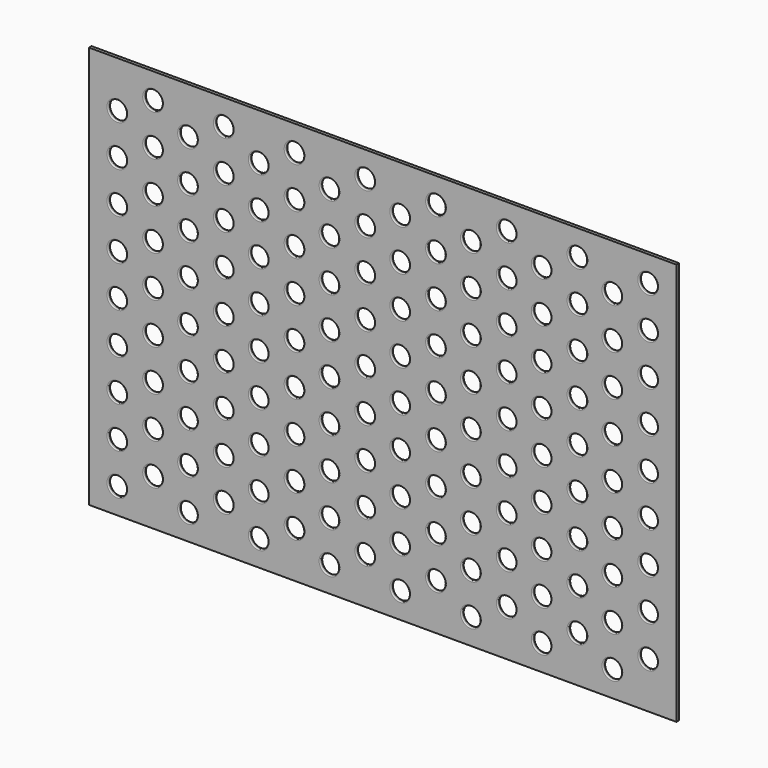
from build123d import *

# Parameters (mm, degrees)
F0_W     = 270
F0_H     = 185
F0_R     = 4.25
F1_DEPTH = 1.5
F2_R     = 0.5


with BuildPart() as f1:
    # F0 (on Front) → F1 (new body)
    with BuildSketch(Plane.XZ):
        with Locations((121.975, 80.75)):
            Rectangle(F0_W, F0_H)
        Circle(F0_R, mode=Mode.SUBTRACT)
        with Locations((16.45, 9.5)):
            Circle(F0_R, mode=Mode.SUBTRACT)
        with Locations((32.5, 0)):
            Circle(F0_R, mode=Mode.SUBTRACT)
        with Locations((48.95, 9.5)):
            Circle(F0_R, mode=Mode.SUBTRACT)
        with Locations((0, 19)):
            Circle(F0_R, mode=Mode.SUBTRACT)
        with Locations((16.45, 28.5)):
            Circle(F0_R, mode=Mode.SUBTRACT)
        with Locations((32.5, 19)):
            Circle(F0_R, mode=Mode.SUBTRACT)
        with Locations((48.95, 28.5)):
            Circle(F0_R, mode=Mode.SUBTRACT)
        with Locations((65, 0)):
            Circle(F0_R, mode=Mode.SUBTRACT)
        with Locations((81.45, 9.5)):
            Circle(F0_R, mode=Mode.SUBTRACT)
        with Locations((97.5, 0)):
            Circle(F0_R, mode=Mode.SUBTRACT)
        with Locations((113.95, 9.5)):
            Circle(F0_R, mode=Mode.SUBTRACT)
        with Locations((65, 19)):
            Circle(F0_R, mode=Mode.SUBTRACT)
        with Locations((81.45, 28.5)):
            Circle(F0_R, mode=Mode.SUBTRACT)
        with Locations((97.5, 19)):
            Circle(F0_R, mode=Mode.SUBTRACT)
        with Locations((113.95, 28.5)):
            Circle(F0_R, mode=Mode.SUBTRACT)
        with Locations((0, 38)):
            Circle(F0_R, mode=Mode.SUBTRACT)
        with Locations((0, 57)):
            Circle(F0_R, mode=Mode.SUBTRACT)
        with Locations((16.45, 47.5)):
            Circle(F0_R, mode=Mode.SUBTRACT)
        with Locations((32.5, 38)):
            Circle(F0_R, mode=Mode.SUBTRACT)
        with Locations((32.5, 57)):
            Circle(F0_R, mode=Mode.SUBTRACT)
        with Locations((48.95, 47.5)):
            Circle(F0_R, mode=Mode.SUBTRACT)
        with Locations((16.45, 66.5)):
            Circle(F0_R, mode=Mode.SUBTRACT)
        with Locations((0, 76)):
            Circle(F0_R, mode=Mode.SUBTRACT)
        with Locations((48.95, 66.5)):
            Circle(F0_R, mode=Mode.SUBTRACT)
        with Locations((32.5, 76)):
            Circle(F0_R, mode=Mode.SUBTRACT)
        with Locations((65, 38)):
            Circle(F0_R, mode=Mode.SUBTRACT)
        with Locations((65, 57)):
            Circle(F0_R, mode=Mode.SUBTRACT)
        with Locations((81.45, 47.5)):
            Circle(F0_R, mode=Mode.SUBTRACT)
        with Locations((97.5, 38)):
            Circle(F0_R, mode=Mode.SUBTRACT)
        with Locations((97.5, 57)):
            Circle(F0_R, mode=Mode.SUBTRACT)
        with Locations((113.95, 47.5)):
            Circle(F0_R, mode=Mode.SUBTRACT)
        with Locations((81.45, 66.5)):
            Circle(F0_R, mode=Mode.SUBTRACT)
        with Locations((65, 76)):
            Circle(F0_R, mode=Mode.SUBTRACT)
        with Locations((113.95, 66.5)):
            Circle(F0_R, mode=Mode.SUBTRACT)
        with Locations((97.5, 76)):
            Circle(F0_R, mode=Mode.SUBTRACT)
        with Locations((130, 0)):
            Circle(F0_R, mode=Mode.SUBTRACT)
        with Locations((146.45, 9.5)):
            Circle(F0_R, mode=Mode.SUBTRACT)
        with Locations((162.5, 0)):
            Circle(F0_R, mode=Mode.SUBTRACT)
        with Locations((178.95, 9.5)):
            Circle(F0_R, mode=Mode.SUBTRACT)
        with Locations((130, 19)):
            Circle(F0_R, mode=Mode.SUBTRACT)
        with Locations((146.45, 28.5)):
            Circle(F0_R, mode=Mode.SUBTRACT)
        with Locations((162.5, 19)):
            Circle(F0_R, mode=Mode.SUBTRACT)
        with Locations((178.95, 28.5)):
            Circle(F0_R, mode=Mode.SUBTRACT)
        with Locations((195, 0)):
            Circle(F0_R, mode=Mode.SUBTRACT)
        with Locations((211.45, 9.5)):
            Circle(F0_R, mode=Mode.SUBTRACT)
        with Locations((227.5, 0)):
            Circle(F0_R, mode=Mode.SUBTRACT)
        with Locations((243.95, 9.5)):
            Circle(F0_R, mode=Mode.SUBTRACT)
        with Locations((195, 19)):
            Circle(F0_R, mode=Mode.SUBTRACT)
        with Locations((211.45, 28.5)):
            Circle(F0_R, mode=Mode.SUBTRACT)
        with Locations((227.5, 19)):
            Circle(F0_R, mode=Mode.SUBTRACT)
        with Locations((243.95, 28.5)):
            Circle(F0_R, mode=Mode.SUBTRACT)
        with Locations((130, 38)):
            Circle(F0_R, mode=Mode.SUBTRACT)
        with Locations((130, 57)):
            Circle(F0_R, mode=Mode.SUBTRACT)
        with Locations((146.45, 47.5)):
            Circle(F0_R, mode=Mode.SUBTRACT)
        with Locations((162.5, 38)):
            Circle(F0_R, mode=Mode.SUBTRACT)
        with Locations((162.5, 57)):
            Circle(F0_R, mode=Mode.SUBTRACT)
        with Locations((178.95, 47.5)):
            Circle(F0_R, mode=Mode.SUBTRACT)
        with Locations((146.45, 66.5)):
            Circle(F0_R, mode=Mode.SUBTRACT)
        with Locations((130, 76)):
            Circle(F0_R, mode=Mode.SUBTRACT)
        with Locations((178.95, 66.5)):
            Circle(F0_R, mode=Mode.SUBTRACT)
        with Locations((162.5, 76)):
            Circle(F0_R, mode=Mode.SUBTRACT)
        with Locations((195, 38)):
            Circle(F0_R, mode=Mode.SUBTRACT)
        with Locations((195, 57)):
            Circle(F0_R, mode=Mode.SUBTRACT)
        with Locations((211.45, 47.5)):
            Circle(F0_R, mode=Mode.SUBTRACT)
        with Locations((227.5, 38)):
            Circle(F0_R, mode=Mode.SUBTRACT)
        with Locations((227.5, 57)):
            Circle(F0_R, mode=Mode.SUBTRACT)
        with Locations((243.95, 47.5)):
            Circle(F0_R, mode=Mode.SUBTRACT)
        with Locations((211.45, 66.5)):
            Circle(F0_R, mode=Mode.SUBTRACT)
        with Locations((195, 76)):
            Circle(F0_R, mode=Mode.SUBTRACT)
        with Locations((243.95, 66.5)):
            Circle(F0_R, mode=Mode.SUBTRACT)
        with Locations((227.5, 76)):
            Circle(F0_R, mode=Mode.SUBTRACT)
        with Locations((16.45, 85.5)):
            Circle(F0_R, mode=Mode.SUBTRACT)
        with Locations((0, 95)):
            Circle(F0_R, mode=Mode.SUBTRACT)
        with Locations((48.95, 85.5)):
            Circle(F0_R, mode=Mode.SUBTRACT)
        with Locations((32.5, 95)):
            Circle(F0_R, mode=Mode.SUBTRACT)
        with Locations((0, 114)):
            Circle(F0_R, mode=Mode.SUBTRACT)
        with Locations((16.45, 104.5)):
            Circle(F0_R, mode=Mode.SUBTRACT)
        with Locations((16.45, 123.5)):
            Circle(F0_R, mode=Mode.SUBTRACT)
        with Locations((32.5, 114)):
            Circle(F0_R, mode=Mode.SUBTRACT)
        with Locations((48.95, 104.5)):
            Circle(F0_R, mode=Mode.SUBTRACT)
        with Locations((48.95, 123.5)):
            Circle(F0_R, mode=Mode.SUBTRACT)
        with Locations((81.45, 85.5)):
            Circle(F0_R, mode=Mode.SUBTRACT)
        with Locations((65, 95)):
            Circle(F0_R, mode=Mode.SUBTRACT)
        with Locations((113.95, 85.5)):
            Circle(F0_R, mode=Mode.SUBTRACT)
        with Locations((97.5, 95)):
            Circle(F0_R, mode=Mode.SUBTRACT)
        with Locations((65, 114)):
            Circle(F0_R, mode=Mode.SUBTRACT)
        with Locations((81.45, 104.5)):
            Circle(F0_R, mode=Mode.SUBTRACT)
        with Locations((81.45, 123.5)):
            Circle(F0_R, mode=Mode.SUBTRACT)
        with Locations((97.5, 114)):
            Circle(F0_R, mode=Mode.SUBTRACT)
        with Locations((113.95, 104.5)):
            Circle(F0_R, mode=Mode.SUBTRACT)
        with Locations((113.95, 123.5)):
            Circle(F0_R, mode=Mode.SUBTRACT)
        with Locations((0, 133)):
            Circle(F0_R, mode=Mode.SUBTRACT)
        with Locations((16.45, 142.5)):
            Circle(F0_R, mode=Mode.SUBTRACT)
        with Locations((32.5, 133)):
            Circle(F0_R, mode=Mode.SUBTRACT)
        with Locations((48.95, 142.5)):
            Circle(F0_R, mode=Mode.SUBTRACT)
        with Locations((0, 152)):
            Circle(F0_R, mode=Mode.SUBTRACT)
        with Locations((16.45, 161.5)):
            Circle(F0_R, mode=Mode.SUBTRACT)
        with Locations((32.5, 152)):
            Circle(F0_R, mode=Mode.SUBTRACT)
        with Locations((48.95, 161.5)):
            Circle(F0_R, mode=Mode.SUBTRACT)
        with Locations((65, 133)):
            Circle(F0_R, mode=Mode.SUBTRACT)
        with Locations((81.45, 142.5)):
            Circle(F0_R, mode=Mode.SUBTRACT)
        with Locations((97.5, 133)):
            Circle(F0_R, mode=Mode.SUBTRACT)
        with Locations((113.95, 142.5)):
            Circle(F0_R, mode=Mode.SUBTRACT)
        with Locations((65, 152)):
            Circle(F0_R, mode=Mode.SUBTRACT)
        with Locations((81.45, 161.5)):
            Circle(F0_R, mode=Mode.SUBTRACT)
        with Locations((97.5, 152)):
            Circle(F0_R, mode=Mode.SUBTRACT)
        with Locations((113.95, 161.5)):
            Circle(F0_R, mode=Mode.SUBTRACT)
        with Locations((146.45, 85.5)):
            Circle(F0_R, mode=Mode.SUBTRACT)
        with Locations((130, 95)):
            Circle(F0_R, mode=Mode.SUBTRACT)
        with Locations((178.95, 85.5)):
            Circle(F0_R, mode=Mode.SUBTRACT)
        with Locations((162.5, 95)):
            Circle(F0_R, mode=Mode.SUBTRACT)
        with Locations((130, 114)):
            Circle(F0_R, mode=Mode.SUBTRACT)
        with Locations((146.45, 104.5)):
            Circle(F0_R, mode=Mode.SUBTRACT)
        with Locations((146.45, 123.5)):
            Circle(F0_R, mode=Mode.SUBTRACT)
        with Locations((162.5, 114)):
            Circle(F0_R, mode=Mode.SUBTRACT)
        with Locations((178.95, 104.5)):
            Circle(F0_R, mode=Mode.SUBTRACT)
        with Locations((178.95, 123.5)):
            Circle(F0_R, mode=Mode.SUBTRACT)
        with Locations((211.45, 85.5)):
            Circle(F0_R, mode=Mode.SUBTRACT)
        with Locations((195, 95)):
            Circle(F0_R, mode=Mode.SUBTRACT)
        with Locations((243.95, 85.5)):
            Circle(F0_R, mode=Mode.SUBTRACT)
        with Locations((227.5, 95)):
            Circle(F0_R, mode=Mode.SUBTRACT)
        with Locations((195, 114)):
            Circle(F0_R, mode=Mode.SUBTRACT)
        with Locations((211.45, 104.5)):
            Circle(F0_R, mode=Mode.SUBTRACT)
        with Locations((211.45, 123.5)):
            Circle(F0_R, mode=Mode.SUBTRACT)
        with Locations((227.5, 114)):
            Circle(F0_R, mode=Mode.SUBTRACT)
        with Locations((243.95, 104.5)):
            Circle(F0_R, mode=Mode.SUBTRACT)
        with Locations((243.95, 123.5)):
            Circle(F0_R, mode=Mode.SUBTRACT)
        with Locations((130, 133)):
            Circle(F0_R, mode=Mode.SUBTRACT)
        with Locations((146.45, 142.5)):
            Circle(F0_R, mode=Mode.SUBTRACT)
        with Locations((162.5, 133)):
            Circle(F0_R, mode=Mode.SUBTRACT)
        with Locations((178.95, 142.5)):
            Circle(F0_R, mode=Mode.SUBTRACT)
        with Locations((130, 152)):
            Circle(F0_R, mode=Mode.SUBTRACT)
        with Locations((146.45, 161.5)):
            Circle(F0_R, mode=Mode.SUBTRACT)
        with Locations((162.5, 152)):
            Circle(F0_R, mode=Mode.SUBTRACT)
        with Locations((178.95, 161.5)):
            Circle(F0_R, mode=Mode.SUBTRACT)
        with Locations((195, 133)):
            Circle(F0_R, mode=Mode.SUBTRACT)
        with Locations((211.45, 142.5)):
            Circle(F0_R, mode=Mode.SUBTRACT)
        with Locations((227.5, 133)):
            Circle(F0_R, mode=Mode.SUBTRACT)
        with Locations((243.95, 142.5)):
            Circle(F0_R, mode=Mode.SUBTRACT)
        with Locations((195, 152)):
            Circle(F0_R, mode=Mode.SUBTRACT)
        with Locations((211.45, 161.5)):
            Circle(F0_R, mode=Mode.SUBTRACT)
        with Locations((227.5, 152)):
            Circle(F0_R, mode=Mode.SUBTRACT)
        with Locations((243.95, 161.5)):
            Circle(F0_R, mode=Mode.SUBTRACT)
    extrude(amount=F1_DEPTH)

    # F2
    f2_edges = [f1.edges().sort_by_distance(p)[0] for p in [
        (12.2, -1.5, 123.5),
        (-4.25, -1.5, 38),
        (12.2, -1.5, 47.5),
        (44.7, -1.5, 123.5),
        (12.2, -1.5, 9.5),
        (-4.25, -1.5, 19),
        (12.2, -1.5, 28.5),
        (-4.25, -1.5, 114),
        (28.25, -1.5, 19),
        (28.25, -1.5, 95),
        (60.75, -1.5, 0),
        (60.75, -1.5, 76),
        (60.75, -1.5, 152),
        (93.25, -1.5, 57),
        (93.25, -1.5, 133),
        (125.75, -1.5, 38),
        (125.75, -1.5, 114),
        (158.25, -1.5, 19),
        (158.25, -1.5, 95),
        (190.75, -1.5, 0),
        (190.75, -1.5, 76),
        (190.75, -1.5, 152),
        (223.25, -1.5, 57),
        (223.25, -1.5, 133),
        (77.2, -1.5, 123.5),
        (44.7, -1.5, 28.5),
        (44.7, -1.5, 104.5),
        (77.2, -1.5, 9.5),
        (77.2, -1.5, 85.5),
        (77.2, -1.5, 161.5),
        (109.7, -1.5, 66.5),
        (109.7, -1.5, 142.5),
        (142.2, -1.5, 47.5),
        (142.2, -1.5, 123.5),
        (174.7, -1.5, 28.5),
        (174.7, -1.5, 104.5),
        (207.2, -1.5, 9.5),
        (207.2, -1.5, 85.5),
        (207.2, -1.5, 161.5),
        (239.7, -1.5, 66.5),
        (239.7, -1.5, 142.5),
        (-4.25, -1.5, 57),
        (-4.25, -1.5, 133),
        (28.25, -1.5, 38),
        (28.25, -1.5, 114),
        (60.75, -1.5, 19),
        (60.75, -1.5, 95),
        (93.25, -1.5, 0),
        (93.25, -1.5, 76),
        (93.25, -1.5, 152),
        (125.75, -1.5, 57),
        (125.75, -1.5, 133),
        (158.25, -1.5, 38),
        (158.25, -1.5, 114),
        (190.75, -1.5, 19),
        (190.75, -1.5, 95),
        (223.25, -1.5, 0),
        (223.25, -1.5, 76),
        (223.25, -1.5, 152),
        (12.2, -1.5, 66.5),
        (12.2, -1.5, 142.5),
        (44.7, -1.5, 47.5),
        (77.2, -1.5, 28.5),
        (77.2, -1.5, 104.5),
        (109.7, -1.5, 9.5),
        (109.7, -1.5, 85.5),
        (109.7, -1.5, 161.5),
        (142.2, -1.5, 66.5),
        (142.2, -1.5, 142.5),
        (174.7, -1.5, 47.5),
        (174.7, -1.5, 123.5),
        (207.2, -1.5, 28.5),
        (207.2, -1.5, 104.5),
        (239.7, -1.5, 9.5),
        (239.7, -1.5, 85.5),
        (239.7, -1.5, 161.5),
        (-4.25, -1.5, 76),
        (-4.25, -1.5, 152),
        (28.25, -1.5, 57),
        (28.25, -1.5, 133),
        (60.75, -1.5, 38),
        (60.75, -1.5, 114),
        (93.25, -1.5, 19),
        (93.25, -1.5, 95),
        (125.75, -1.5, 0),
        (125.75, -1.5, 76),
        (125.75, -1.5, 152),
        (158.25, -1.5, 57),
        (158.25, -1.5, 133),
        (190.75, -1.5, 38),
        (190.75, -1.5, 114),
        (223.25, -1.5, 19),
        (223.25, -1.5, 95),
        (12.2, -1.5, 85.5),
        (12.2, -1.5, 161.5),
        (44.7, -1.5, 66.5),
        (44.7, -1.5, 142.5),
        (77.2, -1.5, 47.5),
        (109.7, -1.5, 28.5),
        (109.7, -1.5, 104.5),
        (142.2, -1.5, 9.5),
        (142.2, -1.5, 85.5),
        (142.2, -1.5, 161.5),
        (174.7, -1.5, 66.5),
        (174.7, -1.5, 142.5),
        (207.2, -1.5, 47.5),
        (207.2, -1.5, 123.5),
        (239.7, -1.5, 28.5),
        (239.7, -1.5, 104.5),
        (-4.25, -1.5, 95),
        (28.25, -1.5, 0),
        (28.25, -1.5, 76),
        (28.25, -1.5, 152),
        (60.75, -1.5, 57),
        (60.75, -1.5, 133),
        (93.25, -1.5, 38),
        (125.75, -1.5, 19),
        (125.75, -1.5, 95),
        (158.25, -1.5, 0),
        (158.25, -1.5, 76),
        (158.25, -1.5, 152),
        (190.75, -1.5, 57),
        (190.75, -1.5, 133),
        (223.25, -1.5, 38),
        (223.25, -1.5, 114),
        (12.2, -1.5, 104.5),
        (44.7, -1.5, 9.5),
        (44.7, -1.5, 85.5),
        (44.7, -1.5, 161.5),
        (77.2, -1.5, 66.5),
        (77.2, -1.5, 142.5),
        (109.7, -1.5, 47.5),
        (109.7, -1.5, 123.5),
        (142.2, -1.5, 28.5),
        (142.2, -1.5, 104.5),
        (174.7, -1.5, 9.5),
        (174.7, -1.5, 85.5),
        (174.7, -1.5, 161.5),
        (207.2, -1.5, 66.5),
        (207.2, -1.5, 142.5),
        (239.7, -1.5, 47.5),
        (239.7, -1.5, 123.5),
        (93.25, -1.5, 114),
        (12.2, 0, 47.5),
        (44.7, 0, 123.5),
        (-4.25, -1.5, 0),
        (12.2, 0, 9.5),
        (-4.25, 0, 19),
        (12.2, 0, 28.5),
        (-4.25, 0, 38),
        (44.7, 0, 28.5),
        (44.7, 0, 104.5),
        (77.2, 0, 9.5),
        (77.2, 0, 85.5),
        (77.2, 0, 161.5),
        (109.7, 0, 66.5),
        (109.7, 0, 142.5),
        (142.2, 0, 47.5),
        (142.2, 0, 123.5),
        (174.7, 0, 28.5),
        (174.7, 0, 104.5),
        (207.2, 0, 9.5),
        (207.2, 0, 85.5),
        (207.2, 0, 161.5),
        (239.7, 0, 66.5),
        (239.7, 0, 142.5),
        (77.2, 0, 123.5),
        (-4.25, 0, 57),
        (-4.25, 0, 133),
        (28.25, 0, 38),
        (28.25, 0, 114),
        (60.75, 0, 19),
        (60.75, 0, 95),
        (93.25, 0, 0),
        (93.25, 0, 76),
        (93.25, 0, 152),
        (125.75, 0, 57),
        (125.75, 0, 133),
        (158.25, 0, 38),
        (158.25, 0, 114),
        (190.75, 0, 19),
        (190.75, 0, 95),
        (223.25, 0, 0),
        (223.25, 0, 76),
        (223.25, 0, 152),
        (12.2, 0, 66.5),
        (12.2, 0, 142.5),
        (44.7, 0, 47.5),
        (77.2, 0, 28.5),
        (77.2, 0, 104.5),
        (109.7, 0, 9.5),
        (109.7, 0, 85.5),
        (109.7, 0, 161.5),
        (142.2, 0, 66.5),
        (142.2, 0, 142.5),
        (174.7, 0, 47.5),
        (174.7, 0, 123.5),
        (207.2, 0, 28.5),
        (207.2, 0, 104.5),
        (239.7, 0, 9.5),
        (239.7, 0, 85.5),
        (239.7, 0, 161.5),
        (109.7, 0, 123.5),
        (12.2, 0, 161.5),
        (-4.25, 0, 76),
        (28.25, 0, 57),
        (28.25, 0, 133),
        (60.75, 0, 38),
        (60.75, 0, 114),
        (93.25, 0, 19),
        (93.25, 0, 95),
        (125.75, 0, 0),
        (125.75, 0, 76),
        (125.75, 0, 152),
        (158.25, 0, 57),
        (158.25, 0, 133),
        (190.75, 0, 38),
        (190.75, 0, 114),
        (223.25, 0, 19),
        (223.25, 0, 95),
        (12.2, 0, 85.5),
        (12.2, 0, 123.5),
        (44.7, 0, 66.5),
        (44.7, 0, 142.5),
        (77.2, 0, 47.5),
        (-4.25, 0, 152),
        (109.7, 0, 28.5),
        (109.7, 0, 104.5),
        (142.2, 0, 9.5),
        (142.2, 0, 85.5),
        (142.2, 0, 161.5),
        (174.7, 0, 66.5),
        (174.7, 0, 142.5),
        (207.2, 0, 47.5),
        (207.2, 0, 123.5),
        (239.7, 0, 28.5),
        (239.7, 0, 104.5),
        (-4.25, 0, 95),
        (28.25, 0, 0),
        (28.25, 0, 76),
        (28.25, 0, 152),
        (60.75, 0, 57),
        (60.75, 0, 133),
        (93.25, 0, 38),
        (93.25, 0, 114),
        (125.75, 0, 19),
        (125.75, 0, 95),
        (158.25, 0, 0),
        (158.25, 0, 76),
        (158.25, 0, 152),
        (190.75, 0, 57),
        (190.75, 0, 133),
        (223.25, 0, 38),
        (223.25, 0, 114),
        (12.2, 0, 104.5),
        (44.7, 0, 9.5),
        (44.7, 0, 85.5),
        (44.7, 0, 161.5),
        (77.2, 0, 66.5),
        (77.2, 0, 142.5),
        (109.7, 0, 47.5),
        (142.2, 0, 28.5),
        (142.2, 0, 104.5),
        (174.7, 0, 9.5),
        (174.7, 0, 85.5),
        (174.7, 0, 161.5),
        (207.2, 0, 66.5),
        (207.2, 0, 142.5),
        (239.7, 0, 47.5),
        (239.7, 0, 123.5),
        (-4.25, 0, 114),
        (28.25, 0, 19),
        (28.25, 0, 95),
        (60.75, 0, 0),
        (60.75, 0, 76),
        (60.75, 0, 152),
        (93.25, 0, 57),
        (93.25, 0, 133),
        (125.75, 0, 38),
        (125.75, 0, 114),
        (158.25, 0, 19),
        (158.25, 0, 95),
        (190.75, 0, 0),
        (190.75, 0, 76),
        (190.75, 0, 152),
        (223.25, 0, 57),
        (223.25, 0, 133),
        (-4.25, 0, 0),
    ]]
    fillet(f2_edges, radius=F2_R)


solid = f1.part
